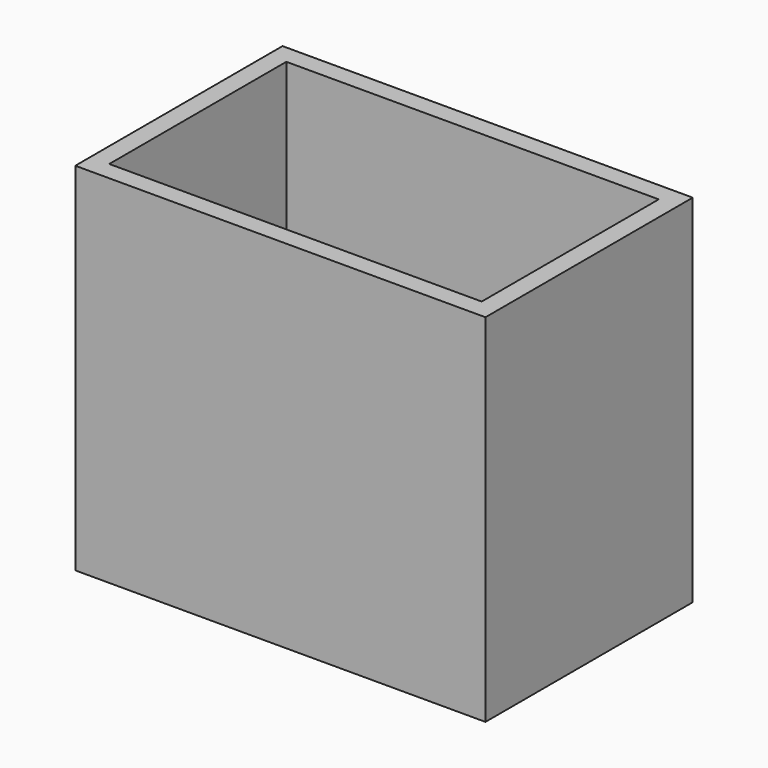
from build123d import *

# Parameters (mm, degrees)
F0_W     = 482.6
F0_H     = 419.1
F1_DEPTH = 152.4
F2_W     = 438.15
F2_H     = 260.35
F3_DEPTH = 241.3


with BuildPart() as f1:
    # F0 (on Front) → F1 (new body, symmetric)
    with BuildSketch(Plane.XZ):
        Rectangle(F0_W, F0_H)
    extrude(amount=F1_DEPTH, both=True)

    # F2 (on face) → F3 (cut, symmetric)
    with BuildSketch(Plane.XY.offset(209.55)):
        Rectangle(F2_W, F2_H)
    extrude(amount=F3_DEPTH, both=True, mode=Mode.SUBTRACT)


solid = f1.part
